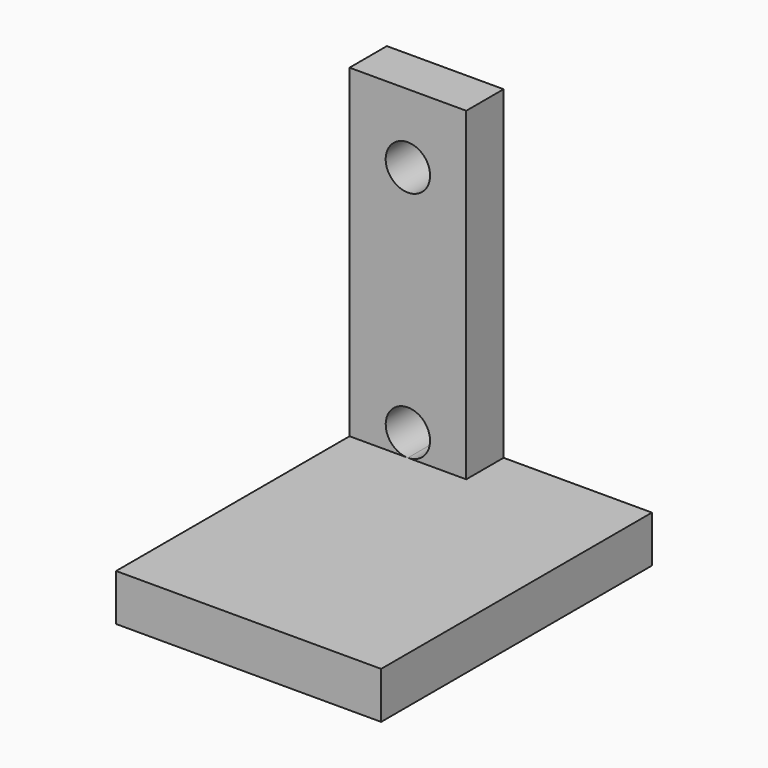
from build123d import *

# Parameters (mm, degrees)
F0_R     = 1.9
F0_W     = 12.7075285465
F0_H     = 4
F1_DEPTH = 4
F2_DEPTH = 25


with BuildPart() as f1:
    # F0 (on Front) → F1 (new body)
    with BuildSketch(Plane.XZ):
        Polygon((5, 15.9), (-5, 15.9), (-5, -11.9), (0, -11.9), (5, -11.9), align=None)
        with BuildLine():
            ThreePointArc((1.9, -10), (1.3435028843, -11.3435028843), (0, -11.9))
            ThreePointArc((0, -11.9), (-1.3435028843, -8.6564971157), (1.9, -10))
        make_face(mode=Mode.SUBTRACT)
        with Locations((0, 10)):
            Circle(F0_R, mode=Mode.SUBTRACT)
        Polygon((0, -11.9), (-5, -11.9), (-5, -15.9), (5, -15.9), (5, -11.9), align=None)
        with Locations((11.3537642732, -13.9)):
            Rectangle(F0_W, F0_H)
    extrude(amount=-F1_DEPTH)

    # F0 (on Front) → F2 (join)
    with BuildSketch(Plane.XZ):
        Polygon((0, -11.9), (-5, -11.9), (-5, -15.9), (5, -15.9), (5, -11.9), align=None)
        with Locations((11.3537642732, -13.9)):
            Rectangle(F0_W, F0_H)
    extrude(amount=F2_DEPTH)


solid = f1.part
